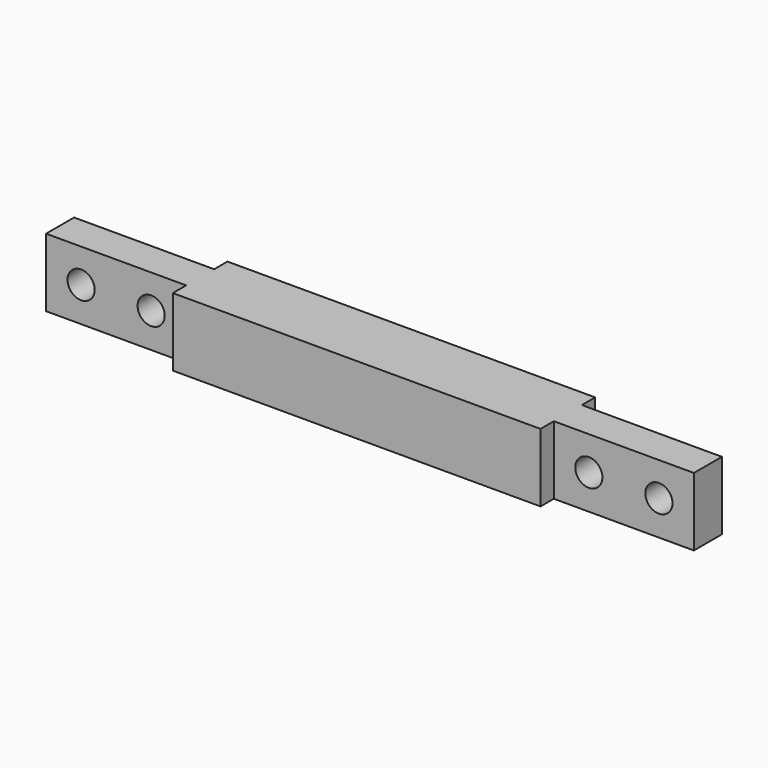
from build123d import *

# Parameters (mm, degrees)
PAD_DEPTH       = 7.8
SKETCH001_R     = 1.55
POCKET_DEPTH    = 5.901
POCKET001_DEPTH = 5.901


with BuildPart() as part:
    # Sketch → Pad (new body)
    with BuildSketch(Plane.XY):
        Polygon((37, -2), (37, 2), (21, 2), (21, 3.9), (-21, 3.9), (-21, 2), (-37, 2), (-37, -2), (-21, -2), (-21, -3.9), (21, -3.9), (21, -2), align=None)
    extrude(amount=PAD_DEPTH)

    # Sketch001 (on Face3 of Pad) → Pocket (cut, through all)
    with BuildSketch(Plane.XZ.offset(2)):
        with Locations((-33, 3.95)):
            Circle(SKETCH001_R)
        with Locations((-25, 3.95)):
            Circle(SKETCH001_R)
        with Locations((25, 3.95)):
            Circle(SKETCH001_R)
        with Locations((33, 3.95)):
            Circle(SKETCH001_R)
    extrude(amount=-POCKET_DEPTH, mode=Mode.SUBTRACT)

    # Sketch001 (on Face3 of Pad) → Pocket001 (cut, through all)
    with BuildSketch(Plane.XZ.offset(2)):
        with Locations((-33, 3.95)):
            Circle(SKETCH001_R)
        with Locations((-25, 3.95)):
            Circle(SKETCH001_R)
        with Locations((25, 3.95)):
            Circle(SKETCH001_R)
        with Locations((33, 3.95)):
            Circle(SKETCH001_R)
    extrude(amount=-POCKET001_DEPTH, mode=Mode.SUBTRACT)


solid = part.part
